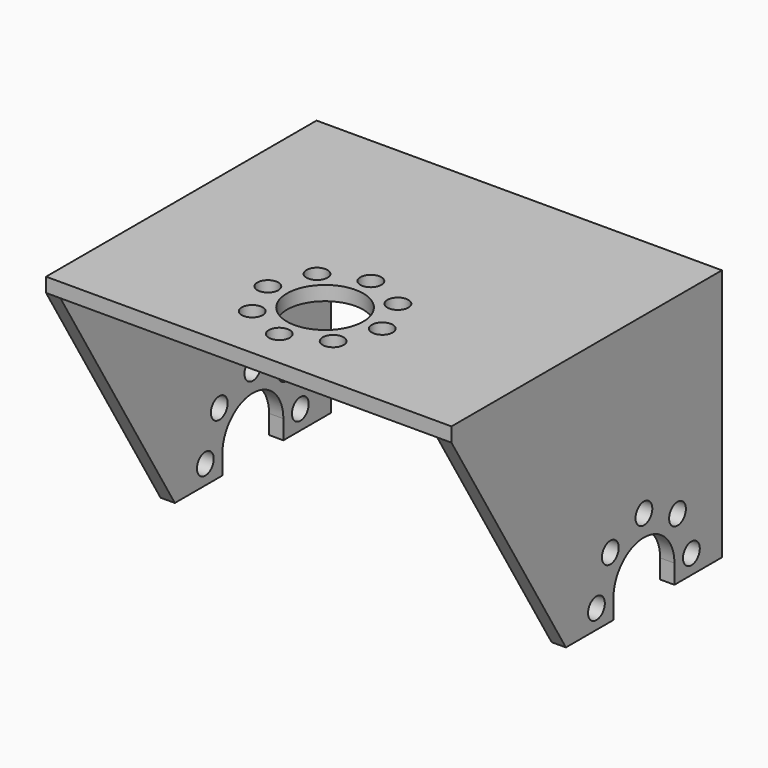
from build123d import *

# Parameters (mm, degrees)
F1_DEPTH = 33
F2_R     = 1.1
F2_W     = 6.2774603256
F2_H     = 1.5
F3_DEPTH = 42.501
F5_DEPTH = 15
F7_DEPTH = 42.501
F8_R     = 4
F8_R_2   = 1.1
F9_DEPTH = 1.5


with BuildPart() as f1:
    # F0 (on Front) → F1 (new body)
    with BuildSketch(Plane.XZ):
        Polygon((0, 26.5), (0, 0), (1.5, 0), (1.5, 25), (41, 25), (41, 0), (42.5, 0), (42.5, 26.5), align=None)
    extrude(amount=F1_DEPTH)

    # F2 (on face) → F3 (cut, through all)
    with BuildSketch(Plane(origin=(0, 0, 0), x_dir=(0, -1, 0), z_dir=(-1, 0, 0))):
        with BuildLine():
            Line((20.5, 0), (20.5, 2))
            ThreePointArc((20.5, 2), (16.5, 6), (12.5, 2))
            Line((12.5, 2), (12.5, 0))
            Line((12.5, 0), (20.5, 0))
        make_face()
        with Locations((22.7225396744, 2)):
            Circle(F2_R)
        with Locations((20.9, 6.4)):
            Circle(F2_R)
        with Locations((16.5, 8.2225396744)):
            Circle(F2_R)
        with Locations((12.1, 6.4)):
            Circle(F2_R)
        with Locations((10.2774603256, 2)):
            Circle(F2_R)
        Polygon((0, 0), (6.2774603256, 0), (0, 25), align=None)
        Polygon((0, 25), (6.2774603256, 0), (6.2774603256, 25), align=None)
        with Locations((3.1387301628, 25.75)):
            Rectangle(F2_W, F2_H)
        Polygon((26.7225396744, 0), (33, 0), (33, 25), align=None)
        Polygon((26.7225396744, 0), (33, 25), (26.7225396744, 25), align=None)
        with Locations((29.8612698372, 25.75)):
            Rectangle(F2_W, F2_H)
    extrude(amount=-F3_DEPTH, mode=Mode.SUBTRACT)

    # F4 (on face) → F5 (join)
    with BuildSketch(Plane.XZ.offset(26.7225396744)):
        Polygon((1.5, 0), (1.5, 25), (41, 25), (41, 0), (42.5, 0), (42.5, 26.5), (0, 26.5), (0, 0), align=None)
    extrude(amount=F5_DEPTH)

    # F6 (on face) → F7 (cut, through all)
    with BuildSketch(Plane.YZ.offset(42.5)):
        Polygon((-26.7225396744, 0), (-41.7225396744, 25), (-41.7225396744, 0), align=None)
    extrude(amount=-F7_DEPTH, mode=Mode.SUBTRACT)

    # F8 (on face) → F9 (cut, through all)
    with BuildSketch(Plane.XY.offset(26.5)):
        with Locations((21.25, -31.7225396744)):
            Circle(F8_R)
        with Locations((21.25, -37.7225396744)):
            Circle(F8_R_2)
        with Locations((25.4926406871, -35.9651803616)):
            Circle(F8_R_2)
        with Locations((27.25, -31.7225396744)):
            Circle(F8_R_2)
        with Locations((25.4926406871, -27.4798989873)):
            Circle(F8_R_2)
        with Locations((21.25, -25.7225396744)):
            Circle(F8_R_2)
        with Locations((17.0073593129, -27.4798989873)):
            Circle(F8_R_2)
        with Locations((15.25, -31.7225396744)):
            Circle(F8_R_2)
        with Locations((17.0073593129, -35.9651803616)):
            Circle(F8_R_2)
    extrude(amount=-F9_DEPTH, mode=Mode.SUBTRACT)


solid = f1.part
